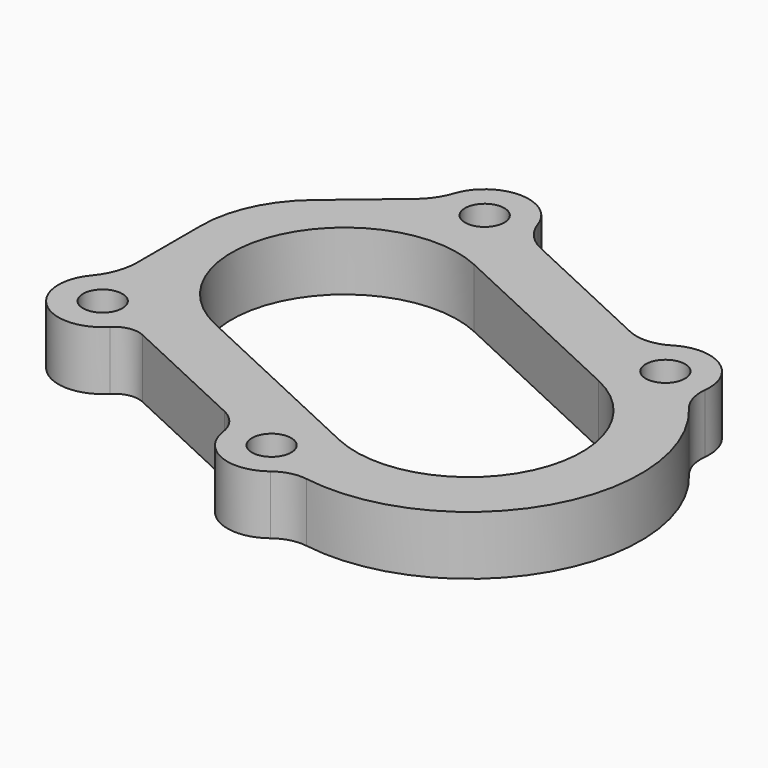
from build123d import *

# Parameters (mm, degrees)
F0_R     = 4
F1_DEPTH = 12
F5_DEPTH = 25


with BuildPart() as f1:
    # F0 (on Top) → F1 (new body)
    with BuildSketch(Plane.XY):
        with BuildLine():
            ThreePointArc((-26.0048357101, 50.7444812044), (-29.3644274881, 53.2410792158), (-31.4666877274, 56.8605212214))
            ThreePointArc((-31.4666877274, 56.8605212214), (-40.0213923063, 62.999974576), (-48.5468142888, 56.8199229623))
            ThreePointArc((-48.5468142888, 56.8199229623), (-49.9581514965, 53.9510477252), (-52.1002110708, 51.5774642275))
            Line((-52.1002110708, 51.5774642275), (-64.5975648535, 41.0909392778))
            ThreePointArc((-64.5975648535, 41.0909392778), (-70.7961493932, 33.0127866299), (-73, 23.0718589569))
            Line((-73, 23.0718589569), (-73, 6.7840487521))
            ThreePointArc((-73, 6.7840487521), (-73.7491959701, 2.5215841304), (-75.9069767442, -1.2299330805))
            ThreePointArc((-75.9069767442, -1.2299330805), (-75.0048915598, -13.7038255761), (-62.5073050486, -13.2325686734))
            ThreePointArc((-62.5073050486, -13.2325686734), (-59.8003263562, -11.7702356961), (-56.747924728, -12.1562352786))
            Line((-56.747924728, -12.1562352786), (-30.1383846638, -24.5644675905))
            ThreePointArc((-30.1383846638, -24.5644675905), (-27.3013538285, -26.880356732), (-25.9102142317, -30.2681018667))
            ThreePointArc((-25.9102142317, -30.2681018667), (-20.3937217432, -37.3356255152), (-11.5094179528, -36.1311646162))
            ThreePointArc((-11.5094179528, -36.1311646162), (-8.6282643598, -34.7280777032), (-5.4272064645, -34.5766601914))
            ThreePointArc((-5.4272064645, -34.5766601914), (30.4444426556, -17.2666126206), (26.8895951939, 22.4042333122))
            ThreePointArc((26.8895951939, 22.4042333122), (25.241110657, 25.4802972467), (24.9393792274, 28.9571677853))
            ThreePointArc((24.9393792274, 28.9571677853), (20.8346498039, 37.591189714), (11.2748155965, 37.6598062869))
            ThreePointArc((11.2748155965, 37.6598062869), (7.2373944377, 36.3866405331), (3.0794263015, 37.1822670966))
            Line((3.0794263015, 37.1822670966), (-26.0048357101, 50.7444812044))
        make_face()
        with Locations((-69, -7)):
            Circle(F0_R, mode=Mode.SUBTRACT)
        with Locations((-17, -29)):
            Circle(F0_R, mode=Mode.SUBTRACT)
        with BuildLine():
            ThreePointArc((9.72022002, 20.8450791018), (20.8450791018, -9.72022002), (-9.72022002, -20.8450791018))
            Line((-9.72022002, -20.8450791018), (-54.4226364125, 0))
            ThreePointArc((-54.4226364125, 0), (-59.2159612375, 4.203633051), (-61, 10.3243927587))
            Line((-61, 10.3243927587), (-61, 22.8490752496))
            ThreePointArc((-61, 22.8490752496), (-59.8756934444, 27.9204943905), (-56.7134513162, 32.041608567))
            Line((-56.7134513162, 32.041608567), (-43.5116564926, 43.1192297344))
            ThreePointArc((-43.5116564926, 43.1192297344), (-41.4626108227, 44.0208314074), (-39.2500330069, 43.6802831101))
            Line((-39.2500330069, 43.6802831101), (9.72022002, 20.8450791018))
        make_face(mode=Mode.SUBTRACT)
        with Locations((-40, 54)):
            Circle(F0_R, mode=Mode.SUBTRACT)
        with Locations((16, 30)):
            Circle(F0_R, mode=Mode.SUBTRACT)
        with BuildLine():
            Line((-54.4226364125, 0), (-9.72022002, -20.8450791018))
            ThreePointArc((-9.72022002, -20.8450791018), (20.8450791018, -9.72022002), (9.72022002, 20.8450791018))
            Line((9.72022002, 20.8450791018), (-39.2500330069, 43.6802831101))
            ThreePointArc((-39.2500330069, 43.6802831101), (-41.4626108227, 44.0208314074), (-43.5116564926, 43.1192297344))
            Line((-43.5116564926, 43.1192297344), (-56.7134513162, 32.041608567))
            ThreePointArc((-56.7134513162, 32.041608567), (-59.8756934444, 27.9204943905), (-61, 22.8490752496))
            Line((-61, 22.8490752496), (-61, 10.3243927587))
            ThreePointArc((-61, 10.3243927587), (-59.2159612375, 4.203633051), (-54.4226364125, 0))
        make_face()
    extrude(amount=F1_DEPTH)

    # F3 (on offset) → F5 (cut)
    with BuildSketch(Plane.XY.offset(12)):
        with BuildLine():
            Line((9.72022002, 20.8450791018), (-30.6963252268, 39.6916236666))
            ThreePointArc((-30.6963252268, 39.6916236666), (-61.2616243486, 28.5667645848), (-50.1367652668, -1.9985345371))
            Line((-50.1367652668, -1.9985345371), (-9.72022002, -20.8450791018))
            ThreePointArc((-9.72022002, -20.8450791018), (20.8450791018, -9.72022002), (9.72022002, 20.8450791018))
        make_face()
    extrude(amount=-F5_DEPTH, mode=Mode.SUBTRACT)


solid = f1.part
